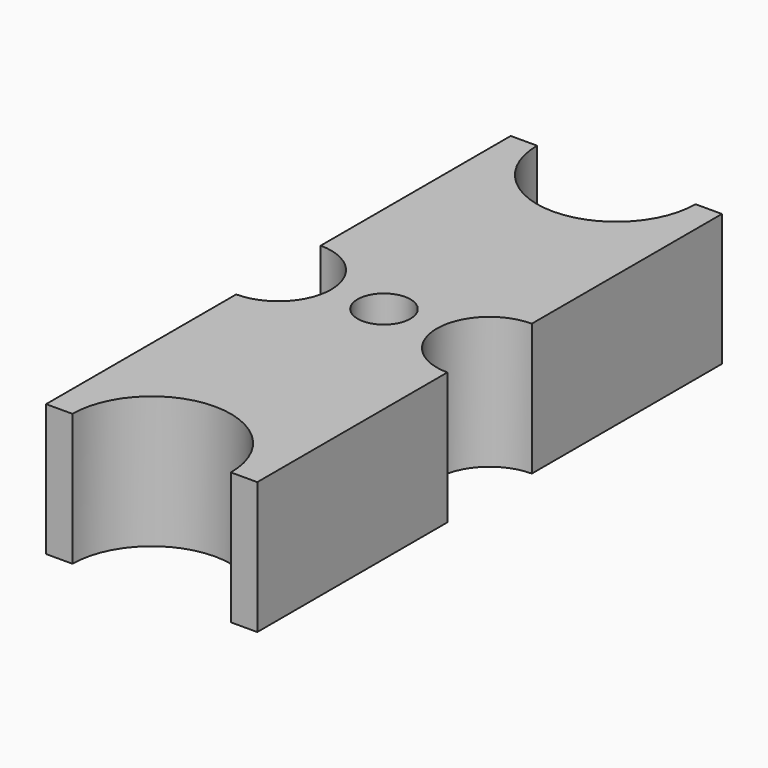
from build123d import *

# Parameters (mm, degrees)
F0_R          = 10
F1_DEPTH      = 25
F1_DEPTH_BACK = 25


with BuildPart() as f1:
    # F0 (on Top) → F1 (new body, two sides)
    with BuildSketch(Plane.XY) as f1_sk:
        with BuildLine():
            Line((-40, 20), (40, 20))
            Line((40, 20), (40, 110))
            Line((40, 110), (30, 110))
            ThreePointArc((30, 110), (0, 80), (-30, 110))
            Line((-30, 110), (-40, 110))
            Line((-40, 110), (-40, 20))
        make_face()
        with BuildLine():
            Line((30, -110), (40, -110))
            Line((40, -110), (40, -20))
            Line((40, -20), (-40, -20))
            Line((-40, -20), (-40, -110))
            Line((-40, -110), (-30, -110))
            ThreePointArc((-30, -110), (0, -80), (30, -110))
        make_face()
        with BuildLine():
            Line((-40, -20), (40, -20))
            ThreePointArc((40, -20), (20, 0), (40, 20))
            Line((40, 20), (-40, 20))
            ThreePointArc((-40, 20), (-20, 0), (-40, -20))
        make_face()
        Circle(F0_R, mode=Mode.SUBTRACT)
    extrude(amount=F1_DEPTH)
    extrude(f1_sk.sketch, amount=-F1_DEPTH_BACK)


solid = f1.part
